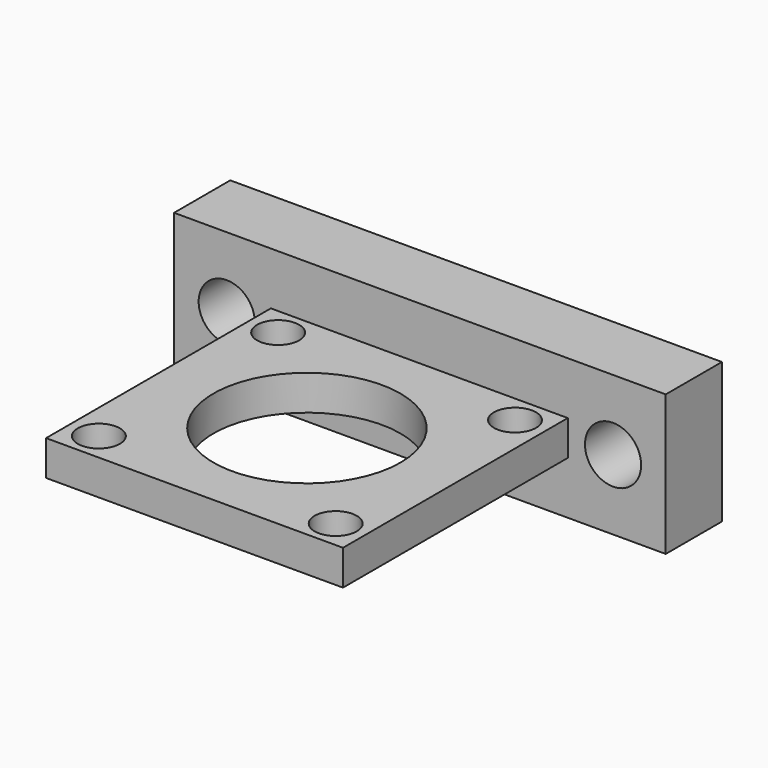
from build123d import *

# Parameters (mm, degrees)
F0_R     = 4
F1_DEPTH = 10
F3_DEPTH = 40
F4_R     = 3
F4_R_2   = 13.31729
F5_DEPTH = 25


with BuildPart() as f1:
    # F0 (on Front) → F1 (new body)
    with BuildSketch(Plane.XZ):
        Polygon((38.877375, 31.887809), (-31.122625, 31.887809), (-31.122625, 11.887809), (-16.122625, 11.887809), (23.877375, 11.887809), (38.877375, 11.887809), align=None)
        with Locations((-23.622625, 21.887809)):
            Circle(F0_R, mode=Mode.SUBTRACT)
        with Locations((31.377375, 21.887809)):
            Circle(F0_R, mode=Mode.SUBTRACT)
    extrude(amount=F1_DEPTH)

    # F2 (on face) → F3 (join)
    with BuildSketch(Plane.XZ.offset(10)):
        Polygon((-17.34383, 19.387809), (-16.122625, 19.387809), (23.877375, 19.387809), (24.928454, 19.387809), (24.928454, 24.387809), (23.877375, 24.387809), (-16.122625, 24.387809), (-17.34383, 24.387809), align=None)
    extrude(amount=F3_DEPTH)

    # F4 (on face) → F5 (cut)
    with BuildSketch(Plane(origin=(0, 0, 19.387809), x_dir=(1, 0, 0), z_dir=(0, 0, -1))):
        with Locations((20.653736, 14.044937)):
            Circle(F4_R)
        with Locations((-13.069112, 14.044937)):
            Circle(F4_R)
        with Locations((-13.069112, 45.955063)):
            Circle(F4_R)
        with Locations((20.653736, 45.955063)):
            Circle(F4_R)
        with Locations((3.792312, 30)):
            Circle(F4_R_2)
    extrude(amount=-F5_DEPTH, mode=Mode.SUBTRACT)


solid = f1.part
